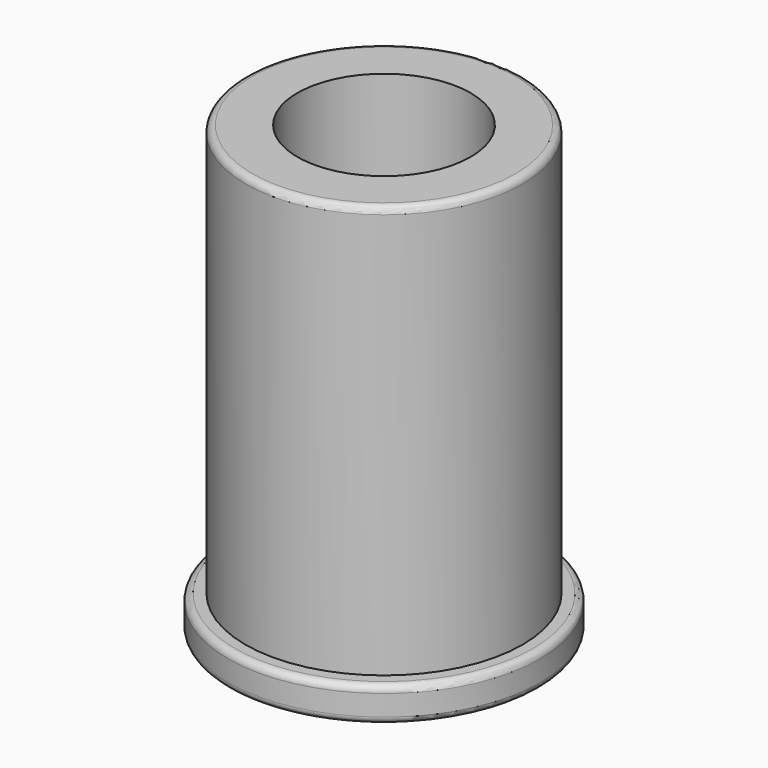
from build123d import *

# Parameters (mm, degrees)
F0_R     = 4.5
F0_R_2   = 4
F1_DEPTH = 1
F0_R_3   = 2.5
F2_DEPTH = 12.9
F3_R     = 0.2
F4_R     = 0.2
F5_R     = 0.2


with BuildPart() as f1:
    # F0 (on Top) → F1 (new body)
    with BuildSketch(Plane.XY):
        Circle(F0_R)
        Circle(F0_R_2, mode=Mode.SUBTRACT)
    extrude(amount=F1_DEPTH)

    # F0 (on Top) → F2 (join)
    with BuildSketch(Plane.XY):
        Circle(F0_R_2)
        Circle(F0_R_3, mode=Mode.SUBTRACT)
    extrude(amount=F2_DEPTH)

    # F3
    f3_edges = [f1.edges().sort_by_distance(p)[0] for p in [
        (-4.5, 0, 0),
    ]]
    fillet(f3_edges, radius=F3_R)

    # F4
    f4_edges = [f1.edges().sort_by_distance(p)[0] for p in [
        (-4.5, 0, 1),
    ]]
    fillet(f4_edges, radius=F4_R)

    # F5
    f5_edges = [f1.edges().sort_by_distance(p)[0] for p in [
        (-4, 0, 12.9),
    ]]
    fillet(f5_edges, radius=F5_R)


solid = f1.part
